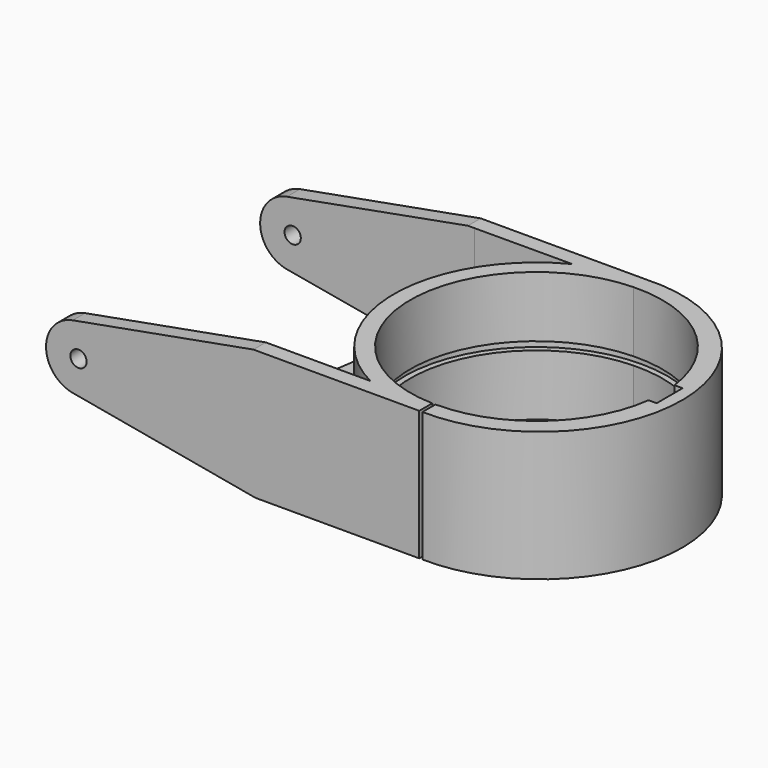
from build123d import *

# Parameters (mm, degrees)
F1_DEPTH  = 25.4
F3_DEPTH  = 9.2075
F4_DEPTH  = 25.4
F6_DEPTH  = 120.65
F7_R      = 3.175
F8_DEPTH  = 114.3
F9_R      = 51.459808
F10_DEPTH = 1.5875


with BuildPart() as f1:
    # F0 (on Top) → F1 (new body, symmetric)
    with BuildSketch(Plane.XY):
        with BuildLine():
            ThreePointArc((-1.268059, -49.19616), (-49.2125, 0), (-1.268059, 49.19616))
            Line((-1.268059, 49.19616), (-1.268059, 55.548028))
            Line((-1.268059, 55.548028), (-147.318059, 55.548028))
            Line((-147.318059, 55.548028), (-147.318059, 49.091056))
            Line((-147.318059, 49.091056), (-63.481436, 49.310384))
            Line((-63.481436, 49.310384), (-25.413497, 49.409974))
            ThreePointArc((-25.413497, 49.409974), (-55.562406, -0.102265), (-25.231443, -49.503189))
            Line((-25.231443, -49.503189), (-63.331443, -49.503189))
            Line((-63.331443, -49.503189), (-69.681443, -49.503189))
            Line((-69.681443, -49.503189), (-147.318059, -49.503189))
            Line((-147.318059, -49.503189), (-147.318059, -55.580053))
            Line((-147.318059, -55.580053), (-1.268059, -55.580053))
            Line((-1.268059, -55.580053), (-1.268059, -49.19616))
        make_face()
        with BuildLine():
            ThreePointArc((-1.268059, -49.19616), (-49.2125, 0), (-1.268059, 49.19616))
            Line((-1.268059, 49.19616), (-1.268059, 55.548028))
            Line((-1.268059, 55.548028), (-147.318059, 55.548028))
            Line((-147.318059, 55.548028), (-147.318059, 49.091056))
            Line((-147.318059, 49.091056), (-63.481436, 49.310384))
            Line((-63.481436, 49.310384), (-25.413497, 49.409974))
            ThreePointArc((-25.413497, 49.409974), (-55.562406, -0.102265), (-25.231443, -49.503189))
            Line((-25.231443, -49.503189), (-63.331443, -49.503189))
            Line((-63.331443, -49.503189), (-69.681443, -49.503189))
            Line((-69.681443, -49.503189), (-147.318059, -49.503189))
            Line((-147.318059, -49.503189), (-147.318059, -55.580053))
            Line((-147.318059, -55.580053), (-1.268059, -55.580053))
            Line((-1.268059, -55.580053), (-1.268059, -49.19616))
        make_face()
        with BuildLine():
            ThreePointArc((-1.268059, -49.19616), (-49.2125, 0), (-1.268059, 49.19616))
            Line((-1.268059, 49.19616), (-1.268059, 55.548028))
            Line((-1.268059, 55.548028), (-147.318059, 55.548028))
            Line((-147.318059, 55.548028), (-147.318059, 49.091056))
            Line((-147.318059, 49.091056), (-63.481436, 49.310384))
            Line((-63.481436, 49.310384), (-25.413497, 49.409974))
            ThreePointArc((-25.413497, 49.409974), (-55.562406, -0.102265), (-25.231443, -49.503189))
            Line((-25.231443, -49.503189), (-63.331443, -49.503189))
            Line((-63.331443, -49.503189), (-69.681443, -49.503189))
            Line((-69.681443, -49.503189), (-147.318059, -49.503189))
            Line((-147.318059, -49.503189), (-147.318059, -55.580053))
            Line((-147.318059, -55.580053), (-1.268059, -55.580053))
            Line((-1.268059, -55.580053), (-1.268059, -49.19616))
        make_face()
    extrude(amount=F1_DEPTH, both=True)

    # F0 (on Top) → F4 (join, symmetric)
    with BuildSketch(Plane.XY):
        with BuildLine():
            ThreePointArc((49.038942, -6.35), (32.623699, -37.053289), (0, -49.2125))
            Line((0, -49.2125), (0, -55.5625))
            ThreePointArc((0, -55.5625), (57.054302, 0.651138), (-1.268059, 55.548028))
            Line((-1.268059, 55.548028), (-1.268059, 49.19616))
            ThreePointArc((-1.268059, 49.19616), (32.145877, 37.471603), (49.039728, 6.35))
            Line((49.039728, 6.35), (52.214728, 6.35))
            Line((52.214728, 6.35), (52.214728, -6.35))
            Line((52.214728, -6.35), (49.038942, -6.35))
        make_face()
    extrude(amount=F4_DEPTH, both=True)

    # F5 (on face) → F6 (cut)
    with BuildSketch(Plane.XZ.offset(55.580053)):
        with BuildLine():
            ThreePointArc((-137.069367, -12.441399), (-147.218809, 0.136694), (-136.80097, 12.493402))
            Line((-136.80097, 12.493402), (-64.669545, 25.665354))
            Line((-64.669545, 25.665354), (-147.4055, 25.665354))
            Line((-147.4055, 25.665354), (-147.4055, -25.506219))
            Line((-147.4055, -25.506219), (-64.669545, -25.506219))
            Line((-64.669545, -25.506219), (-137.069367, -12.441399))
        make_face()
    extrude(amount=-F6_DEPTH, mode=Mode.SUBTRACT)

    # F7 (on face) → F8 (cut)
    with BuildSketch(Plane(origin=(0, 55.548028, 0), x_dir=(-1, 0, 0), z_dir=(0, 1, 0))):
        with Locations((134.519545, 0)):
            Circle(F7_R)
    extrude(amount=-F8_DEPTH, mode=Mode.SUBTRACT)

    # F9 (on Top) → F10 (cut, symmetric)
    with BuildSketch(Plane.XY):
        Circle(F9_R)
    extrude(amount=F10_DEPTH, both=True, mode=Mode.SUBTRACT)


with BuildPart() as f3:
    # F0 (on Top) → F3 (new body, symmetric)
    with BuildSketch(Plane.XY):
        with BuildLine():
            Line((-25.413497, 49.409974), (-63.481436, 49.310384))
            ThreePointArc((-63.481436, 49.310384), (-55.696396, -0.084699), (-63.331443, -49.503189))
            Line((-63.331443, -49.503189), (-25.231443, -49.503189))
            ThreePointArc((-25.231443, -49.503189), (-55.562406, -0.102265), (-25.413497, 49.409974))
        make_face()
    extrude(amount=F3_DEPTH, both=True)


solid = Compound([f1.part, f3.part])
